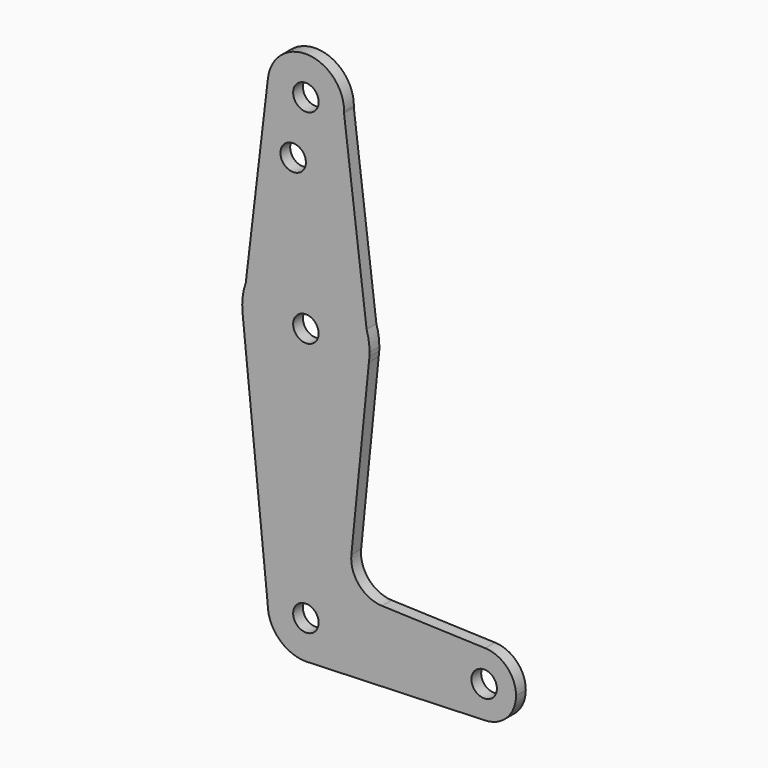
from build123d import *

# Parameters (mm, degrees)
F0_R     = 3.175
F1_DEPTH = 3.048


with BuildPart() as f1:
    # F0 (on Front) → F1 (new body)
    with BuildSketch(Plane.XZ):
        with BuildLine():
            ThreePointArc((9.5159645049, 113.8852174773), (9.5227408583, 114.0925595379), (9.525, 114.3))
            ThreePointArc((9.525, 114.3), (0.5608158331, 123.8084757244), (-9.4589602313, 115.4196858236))
            ThreePointArc((-9.4589602313, 115.4196858236), (-0.7677634064, 104.8059932404), (9.5159645049, 113.8852174773))
        make_face()
        with Locations((0, 114.3)):
            Circle(F0_R, mode=Mode.SUBTRACT)
        with BuildLine():
            ThreePointArc((9.5159645049, 113.8852174773), (-0.7677634064, 104.8059932404), (-9.4589602313, 115.4196858236))
            Line((-9.4589602313, 115.4196858236), (-14.9842264132, 68.7429556358))
            ThreePointArc((-14.9842264132, 68.7429556358), (0.2469833434, 79.3730785996), (15.1400926268, 68.2742245709))
            Line((15.1400926268, 68.2742245709), (9.5159645049, 113.8852174773))
        make_face()
        with Locations((-3.175, 100.0252)):
            Circle(F0_R, mode=Mode.SUBTRACT)
        with BuildLine():
            Line((-15.7942028036, 61.9003804205), (-14.9842264132, 68.7429556358))
            ThreePointArc((-14.9842264132, 68.7429556358), (-15.7649337188, 65.3661430393), (-15.7942028036, 61.9003804205))
        make_face()
        with BuildLine():
            ThreePointArc((15.1400926268, 68.2742245709), (0.2469833434, 79.3730785996), (-14.9842264132, 68.7429556358))
            Line((-14.9842264132, 68.7429556358), (-15.7942028036, 61.9003804205))
            ThreePointArc((-15.7942028036, 61.9003804205), (-0.3088122539, 47.6280039065), (15.7200272704, 61.2872262615))
            Line((15.7200272704, 61.2872262615), (15.8463452372, 62.546602065))
            Line((15.8463452372, 62.546602065), (15.1400926268, 68.2742245709))
        make_face()
        with Locations((0, 63.5)):
            Circle(F0_R, mode=Mode.SUBTRACT)
        with BuildLine():
            ThreePointArc((15.875, 63.5), (15.6901975043, 65.9152282035), (15.1400926268, 68.2742245709))
            Line((15.1400926268, 68.2742245709), (15.8463452372, 62.546602065))
            ThreePointArc((15.8463452372, 62.546602065), (15.8678346922, 63.0230857735), (15.875, 63.5))
        make_face()
        with BuildLine():
            ThreePointArc((15.7200272704, 61.2872262615), (-0.3088122539, 47.6280039065), (-15.7942028036, 61.9003804205))
            Line((-15.7942028036, 61.9003804205), (-9.525, 0))
            ThreePointArc((-9.525, 0), (0, 9.525), (9.525, 0))
            ThreePointArc((9.525, 0), (6.9705567315, -6.4912990883), (0.6773435479, -9.500885786))
            Line((0.6773435479, -9.500885786), (44.7324052746, -7.9324746146))
            ThreePointArc((44.7324052746, -7.9324746146), (36.5125, 0), (44.7324052746, 7.9324746146))
            Line((44.7324052746, 7.9324746146), (18.9646008245, 8.8498382676))
            ThreePointArc((18.9646008245, 8.8498382676), (13.2579989897, 11.566997436), (11.3369501978, 17.5884449353))
            Line((11.3369501978, 17.5884449353), (15.7200272704, 61.2872262615))
        make_face()
        with BuildLine():
            ThreePointArc((15.7200272704, 61.2872262615), (15.7957423117, 61.915654765), (15.8463452372, 62.546602065))
            Line((15.8463452372, 62.546602065), (15.7200272704, 61.2872262615))
        make_face()
        with BuildLine():
            ThreePointArc((9.525, 0), (0, 9.525), (-9.525, 0))
            ThreePointArc((-9.525, 0), (-6.7351920908, -6.7351920908), (0, -9.525))
            Line((0, -9.525), (0.6773435479, -9.500885786))
            ThreePointArc((0.6773435479, -9.500885786), (6.9705567315, -6.4912990883), (9.525, 0))
        make_face()
        Circle(F0_R, mode=Mode.SUBTRACT)
        with BuildLine():
            Line((0.6773435479, -9.500885786), (0, -9.525))
            ThreePointArc((0, -9.525), (0.3388863295, -9.5189695375), (0.6773435479, -9.500885786))
        make_face()
        with BuildLine():
            ThreePointArc((52.3875, 0), (50.1616327839, 5.5119104847), (44.7324052746, 7.9324746146))
            ThreePointArc((44.7324052746, 7.9324746146), (36.5125, 0), (44.7324052746, -7.9324746146))
            ThreePointArc((44.7324052746, -7.9324746146), (50.1616327839, -5.5119104847), (52.3875, 0))
        make_face()
        with Locations((44.45, 0)):
            Circle(F0_R, mode=Mode.SUBTRACT)
    extrude(amount=F1_DEPTH)


solid = f1.part
